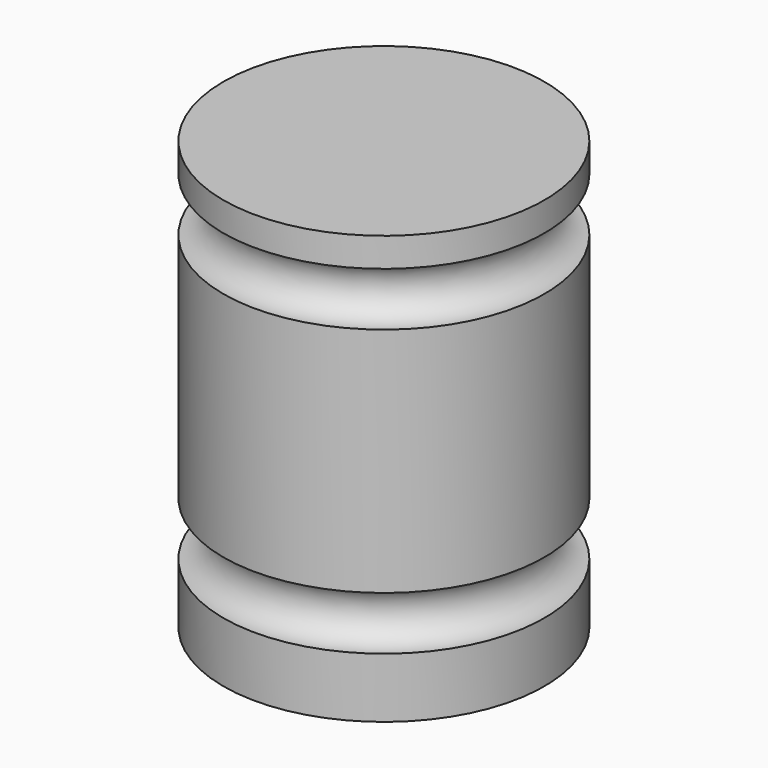
from build123d import *

# Parameters (mm, degrees)
F2_R     = 19.05
F3_DEPTH = 25.4


with BuildPart() as f1:
    # F0 (on Front) → F1 (revolve)
    with BuildSketch(Plane.XZ):
        with BuildLine():
            Line((-38.1, 0), (0, 0))
            Line((0, 0), (0, 101.6))
            Line((0, 101.6), (-38.1, 101.6))
            Line((-38.1, 101.6), (-38.1, 94.693672))
            ThreePointArc((-38.1, 94.693672), (-31.75, 88.343672), (-38.1, 81.993672))
            Line((-38.1, 81.993672), (-38.1, 26.956592))
            ThreePointArc((-38.1, 26.956592), (-31.75, 20.606592), (-38.1, 14.256592))
            Line((-38.1, 14.256592), (-38.1, 0))
        make_face()
    revolve(axis=Axis((0, 0, 50.8), (0, 0, 1)))

    # F2 (on Front) → F3 (cut)
    with BuildSketch(Plane.XZ):
        with Locations((0, 53.649068)):
            Circle(F2_R)
    extrude(amount=-F3_DEPTH, mode=Mode.SUBTRACT)


solid = f1.part
